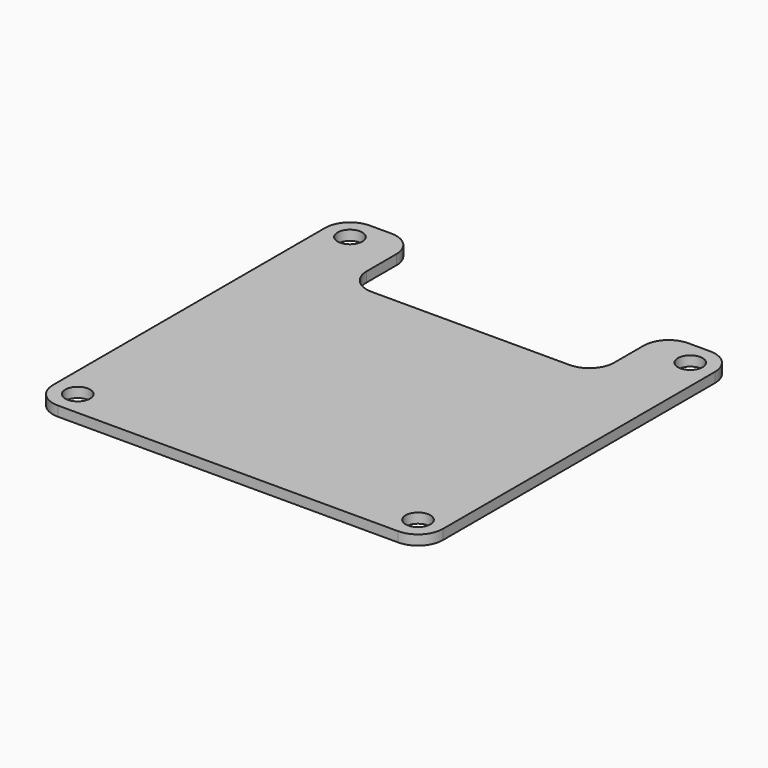
from build123d import *

# Parameters (mm, degrees)
SKETCH_W     = 31.5
SKETCH_H     = 31.5
SKETCH_R     = 1
PAD_DEPTH    = 0.8
FILLET_R     = 2
SKETCH001_W  = 20
SKETCH001_H  = 7
POCKET_DEPTH = 0.801
FILLET001_R  = 2


with BuildPart() as part:
    # Sketch → Pad (new body)
    with BuildSketch(Plane.XY):
        Rectangle(SKETCH_W, SKETCH_H)
        with Locations((-13.75, 13.75)):
            Circle(SKETCH_R, mode=Mode.SUBTRACT)
        with Locations((13.75, 13.75)):
            Circle(SKETCH_R, mode=Mode.SUBTRACT)
        with Locations((-13.75, -13.75)):
            Circle(SKETCH_R, mode=Mode.SUBTRACT)
        with Locations((13.75, -13.75)):
            Circle(SKETCH_R, mode=Mode.SUBTRACT)
    extrude(amount=PAD_DEPTH)

    # Fillet
    fillet_edges = [part.edges().sort_by_distance(p)[0] for p in [
        (-15.75, 15.75, 0.4),
        (-15.75, -15.75, 0.4),
        (15.75, -15.75, 0.4),
        (15.75, 15.75, 0.4),
    ]]
    fillet(fillet_edges, radius=FILLET_R)

    # Sketch001 (on Face5 of Fillet) → Pocket (cut, through all)
    with BuildSketch(Plane.XY.offset(0.8)):
        with Locations((0, 12.25)):
            Rectangle(SKETCH001_W, SKETCH001_H)
    extrude(amount=-POCKET_DEPTH, mode=Mode.SUBTRACT)

    # Fillet001
    fillet001_edges = [part.edges().sort_by_distance(p)[0] for p in [
        (-10, 15.75, 0.4),
        (-10, 8.75, 0.4),
        (10, 8.75, 0.4),
        (10, 15.75, 0.4),
    ]]
    fillet(fillet001_edges, radius=FILLET001_R)


solid = part.part
